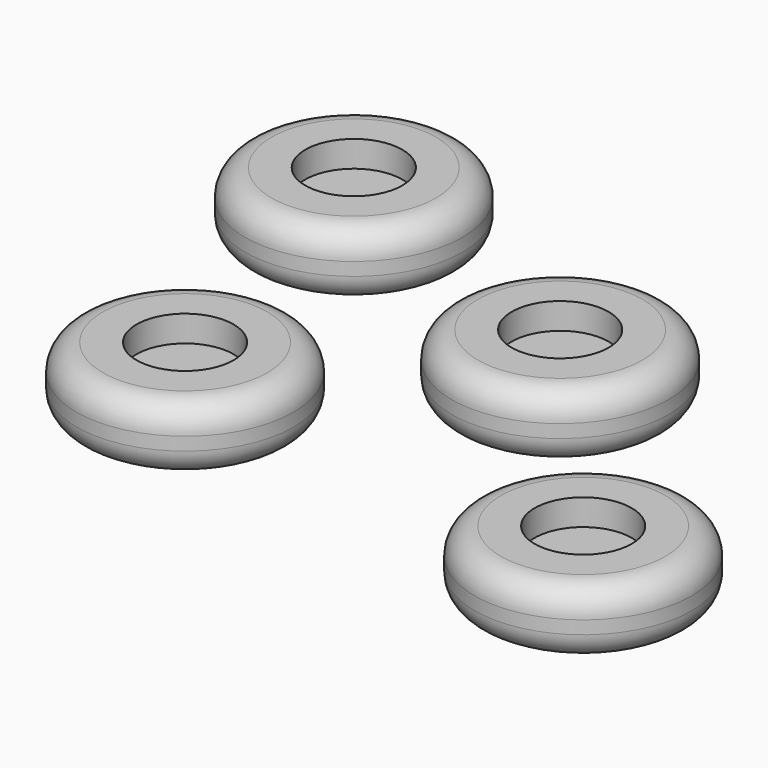
from build123d import *

# Parameters (mm, degrees)
F0_R      = 21.025584
F0_R_2    = 9.396759
F1_DEPTH  = 12.7
F2_R      = 5.08
F3_DEPTH  = 7.62
F4_DEPTH  = 25.4
F5_R      = 5.08
F6_DEPTH  = 12.7
F7_DEPTH  = 25.4
F8_R      = 5.08
F9_DEPTH  = 12.7
F10_DEPTH = 25.4
F11_R     = 5.08
F12_DEPTH = 12.7
F16_DEPTH = 12.7
F17_R     = 5.08
F18_DEPTH = 7.62
F19_DEPTH = 12.7
F20_R     = 5.08
F21_DEPTH = 12.7
F22_R     = 5.08
F23_DEPTH = 7.62
F24_DEPTH = 7.62


with BuildPart() as f1:
    # F0 (on Top) → F1 (new body)
    with BuildSketch(Plane.XY):
        Circle(F0_R)
        Circle(F0_R_2, mode=Mode.SUBTRACT)
    extrude(amount=F1_DEPTH)

    # F2
    f2_edges = [f1.edges().sort_by_distance(p)[0] for p in [
        (21.025584, 0, 6.35),
        (-21.025584, 0, 0),
        (-21.025584, 0, 12.7),
    ]]
    fillet(f2_edges, radius=F2_R)

    # F0 (on Top) → F3 (join)
    with BuildSketch(Plane.XY):
        Circle(F0_R_2)
    extrude(amount=F3_DEPTH)


with BuildPart() as f4:
    # F0 (on Top) → F4 (new body)
    with BuildSketch(Plane.XY):
        with Locations((-57.561152, 21.979019)):
            Circle(F0_R)
        with Locations((-57.561152, 21.979019)):
            Circle(F0_R_2, mode=Mode.SUBTRACT)
    extrude(amount=F4_DEPTH)

    # F5
    f5_edges = [f4.edges().sort_by_distance(p)[0] for p in [
        (-36.535567, 21.979019, 12.7),
        (-78.586736, 21.979019, 0),
        (-78.586736, 21.979019, 25.4),
    ]]
    fillet(f5_edges, radius=F5_R)

    # F0 (on Top) → F6 (join)
    with BuildSketch(Plane.XY):
        with Locations((-57.561152, 21.979019)):
            Circle(F0_R_2)
    extrude(amount=F6_DEPTH)


with BuildPart() as f7:
    # F0 (on Top) → F7 (new body)
    with BuildSketch(Plane.XY):
        with Locations((-41.731834, -38.666785)):
            Circle(F0_R)
        with Locations((-41.731834, -38.666785)):
            Circle(F0_R_2, mode=Mode.SUBTRACT)
    extrude(amount=F7_DEPTH)

    # F8
    f8_edges = [f7.edges().sort_by_distance(p)[0] for p in [
        (-20.70625, -38.666785, 12.7),
        (-62.757419, -38.666785, 0),
        (-62.757419, -38.666785, 25.4),
    ]]
    fillet(f8_edges, radius=F8_R)

    # F0 (on Top) → F9 (join)
    with BuildSketch(Plane.XY):
        with Locations((-41.731834, -38.666785)):
            Circle(F0_R_2)
    extrude(amount=F9_DEPTH)


with BuildPart() as f10:
    # F0 (on Top) → F10 (new body)
    with BuildSketch(Plane.XY):
        with Locations((42.883057, -48.028216)):
            Circle(F0_R)
        with Locations((42.883057, -48.028216)):
            Circle(F0_R_2, mode=Mode.SUBTRACT)
    extrude(amount=F10_DEPTH)

    # F11
    f11_edges = [f10.edges().sort_by_distance(p)[0] for p in [
        (63.908641, -48.028216, 12.7),
        (21.857473, -48.028216, 0),
        (21.857473, -48.028216, 25.4),
    ]]
    fillet(f11_edges, radius=F11_R)

    # F0 (on Top) → F12 (join)
    with BuildSketch(Plane.XY):
        with Locations((42.883057, -48.028216)):
            Circle(F0_R_2)
    extrude(amount=F12_DEPTH)


with BuildPart() as f16:
    # F0 (on Top) → F16 (new body)
    with BuildSketch(Plane.XY):
        with Locations((-57.561152, 21.979019)):
            Circle(F0_R)
        with Locations((-57.561152, 21.979019)):
            Circle(F0_R_2, mode=Mode.SUBTRACT)
    extrude(amount=F16_DEPTH)

    # F17
    f17_edges = [f16.edges().sort_by_distance(p)[0] for p in [
        (-36.535567, 21.979019, 6.35),
        (-78.586736, 21.979019, 0),
        (-78.586736, 21.979019, 12.7),
    ]]
    fillet(f17_edges, radius=F17_R)

    # F0 (on Top) → F18 (join)
    with BuildSketch(Plane.XY):
        with Locations((-57.561152, 21.979019)):
            Circle(F0_R_2)
    extrude(amount=F18_DEPTH)


with BuildPart() as f19:
    # F0 (on Top) → F19 (new body)
    with BuildSketch(Plane.XY):
        with Locations((42.883057, -48.028216)):
            Circle(F0_R)
        with Locations((42.883057, -48.028216)):
            Circle(F0_R_2, mode=Mode.SUBTRACT)
    extrude(amount=F19_DEPTH)

    # F20
    f20_edges = [f19.edges().sort_by_distance(p)[0] for p in [
        (63.908641, -48.028216, 6.35),
        (21.857473, -48.028216, 0),
        (21.857473, -48.028216, 12.7),
    ]]
    fillet(f20_edges, radius=F20_R)

    # F0 (on Top) → F23 (join)
    with BuildSketch(Plane.XY):
        with Locations((42.883057, -48.028216)):
            Circle(F0_R_2)
    extrude(amount=F23_DEPTH)


with BuildPart() as f21:
    # F0 (on Top) → F21 (new body)
    with BuildSketch(Plane.XY):
        with Locations((-41.731834, -38.666785)):
            Circle(F0_R)
        with Locations((-41.731834, -38.666785)):
            Circle(F0_R_2, mode=Mode.SUBTRACT)
    extrude(amount=F21_DEPTH)

    # F22
    f22_edges = [f21.edges().sort_by_distance(p)[0] for p in [
        (-20.70625, -38.666785, 6.35),
        (-62.757419, -38.666785, 0),
        (-62.757419, -38.666785, 12.7),
    ]]
    fillet(f22_edges, radius=F22_R)

    # F0 (on Top) → F24 (join)
    with BuildSketch(Plane.XY):
        with Locations((-41.731834, -38.666785)):
            Circle(F0_R_2)
    extrude(amount=F24_DEPTH)


solid = Compound([f1.part, f16.part, f19.part, f21.part])
